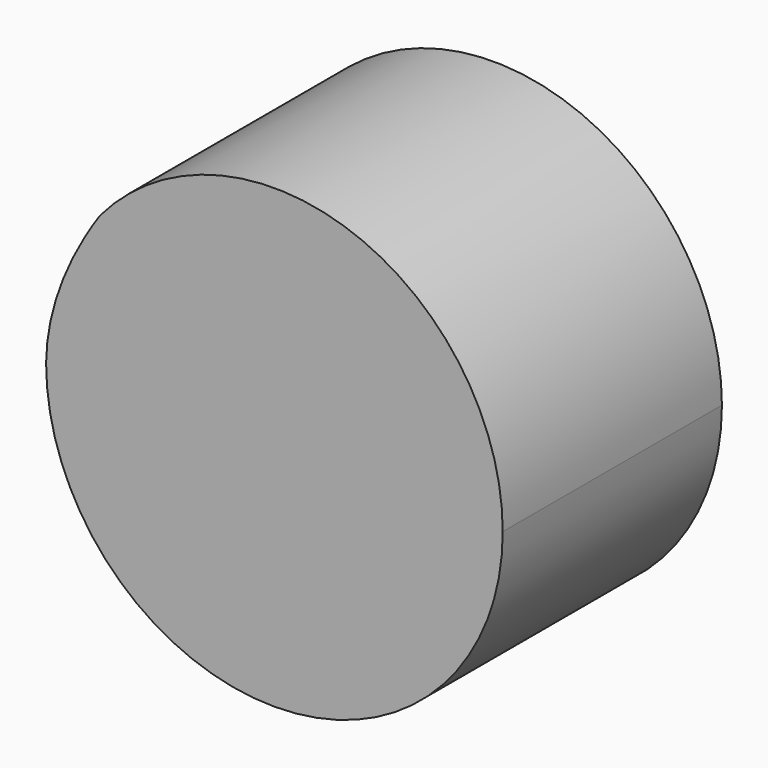
from build123d import *

# Parameters (mm, degrees)
F1_DEPTH = 38.1


with BuildPart() as f1:
    # F0 (on Front) → F1 (new body)
    with BuildSketch(Plane.XZ):
        with BuildLine():
            add(Edge.make_bspline(
                [(-31.75, 0), (-31.671044, 6.672548), (-28.845243, 13.8547), (-24.235045, 20.511584)],
                knots=[0, 0, 0, 0, 22.183923, 22.183923, 22.183923, 22.183923], degree=3))
            ThreePointArc((-31.75, 0), (0, -31.75), (31.75, 0))
            ThreePointArc((31.75, 0), (10.92245, 29.812122), (-24.235045, 20.511584))
        make_face()
    extrude(amount=F1_DEPTH)


solid = f1.part
